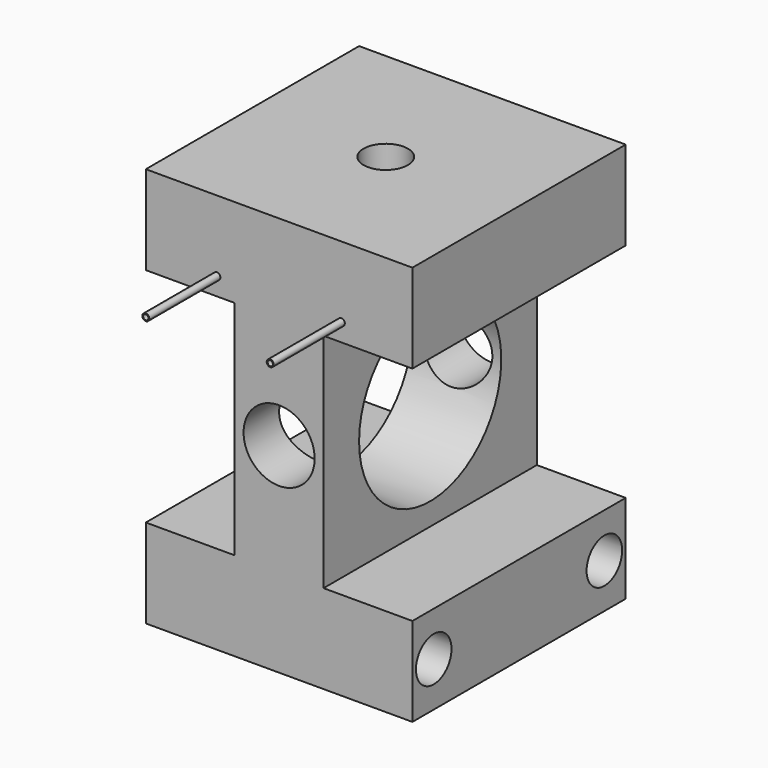
from build123d import *

# Parameters (mm, degrees)
F1_DEPTH  = 38.1
F3_D      = 50.8
F5_R      = 6.35
F6_DEPTH  = 25.4
F4_R      = 6.35
F7_DEPTH  = 25.4
F8_R      = 6.35
F9_DEPTH  = 12.7
F10_R     = 1
F10_R_2   = 0.746
F11_DEPTH = 25.4
F10_R_3   = 10.16
F12_DEPTH = 101.6


with BuildPart() as f1:
    # F0 (on Front) → F1 (new body, symmetric)
    with BuildSketch(Plane.XZ):
        Polygon((-44.45, -8.95857), (-44.45, -34.35857), (31.75, -34.35857), (31.75, -8.95857), (6.35, -8.95857), (6.35, 54.54143), (31.75, 54.54143), (31.75, 79.94143), (-44.45, 79.94143), (-44.45, 54.54143), (-19.05, 54.54143), (-19.05, -8.95857), align=None)
    extrude(amount=F1_DEPTH, both=True)

    # F3 (through all)
    with Locations(Plane.YZ.offset(6.35)):
        with Locations((0, 22.79143)):
            Hole(F3_D / 2)

    # F5 (on face) → F6 (cut)
    with BuildSketch(Plane.YZ.offset(31.75)):
        with Locations((-30.48, -21.65857)):
            Circle(F5_R)
        with Locations((30.48, -21.65857)):
            Circle(F5_R)
    extrude(amount=-F6_DEPTH, mode=Mode.SUBTRACT)

    # F4 (on face) → F7 (cut)
    with BuildSketch(Plane(origin=(-44.45, 0, 0), x_dir=(0, -1, 0), z_dir=(-1, 0, 0))):
        with Locations((30.48, -21.65857)):
            Circle(F4_R)
        with Locations((-30.48, -21.65857)):
            Circle(F4_R)
    extrude(amount=-F7_DEPTH, mode=Mode.SUBTRACT)

    # F8 (on face) → F9 (cut)
    with BuildSketch(Plane.XY.offset(79.94143)):
        with Locations((-6.35, 0)):
            Circle(F8_R)
    extrude(amount=-F9_DEPTH, mode=Mode.SUBTRACT)

    # F10 (on face) → F11 (join)
    with BuildSketch(Plane.XZ.offset(38.1)):
        with Locations((11.43, 59.62143)):
            Circle(F10_R)
        with Locations((11.43, 59.62143)):
            Circle(F10_R_2, mode=Mode.SUBTRACT)
        with Locations((-24.13, 59.62143)):
            Circle(F10_R)
        with Locations((-24.13, 59.62143)):
            Circle(F10_R_2, mode=Mode.SUBTRACT)
    extrude(amount=F11_DEPTH)

    # F10 (on face) → F12 (cut)
    with BuildSketch(Plane.XZ.offset(38.1)):
        with Locations((-6.35, 22.79143)):
            Circle(F10_R_3)
    extrude(amount=-F12_DEPTH, mode=Mode.SUBTRACT)


solid = f1.part
